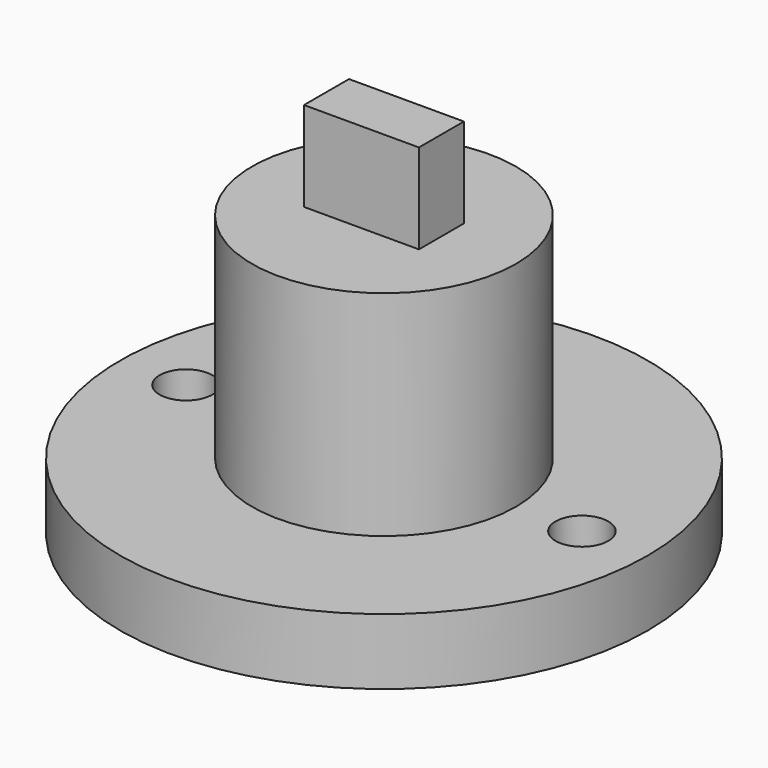
from build123d import *

# Parameters (mm, degrees)
F2_W     = 5.528318
F2_H     = 2.70489
F3_DEPTH = 4.318
F4_R     = 1.27
F5_DEPTH = 3.176


with BuildPart() as f1:
    # F0 (on Front) → F1 (revolve)
    with BuildSketch(Plane.XZ):
        Polygon((6.35, 13.462), (0, 13.462), (0, 10.922), (4.7625, 10.922), (4.7625, 0), (12.7, 0), (12.7, 3.175), (6.35, 3.175), align=None)
    revolve(axis=Axis((0, 0, 12.192), (0, 0, 1)))

    # F2 (on face) → F3 (join)
    with BuildSketch(Plane.XY.offset(13.462)):
        Rectangle(F2_W, F2_H)
    extrude(amount=F3_DEPTH)

    # F4 (on face) → F5 (cut, through all)
    with BuildSketch(Plane.XY.offset(3.175)):
        with Locations((-9.525, 0)):
            Circle(F4_R)
        with Locations((9.525, 0)):
            Circle(F4_R)
    extrude(amount=-F5_DEPTH, mode=Mode.SUBTRACT)


solid = f1.part
